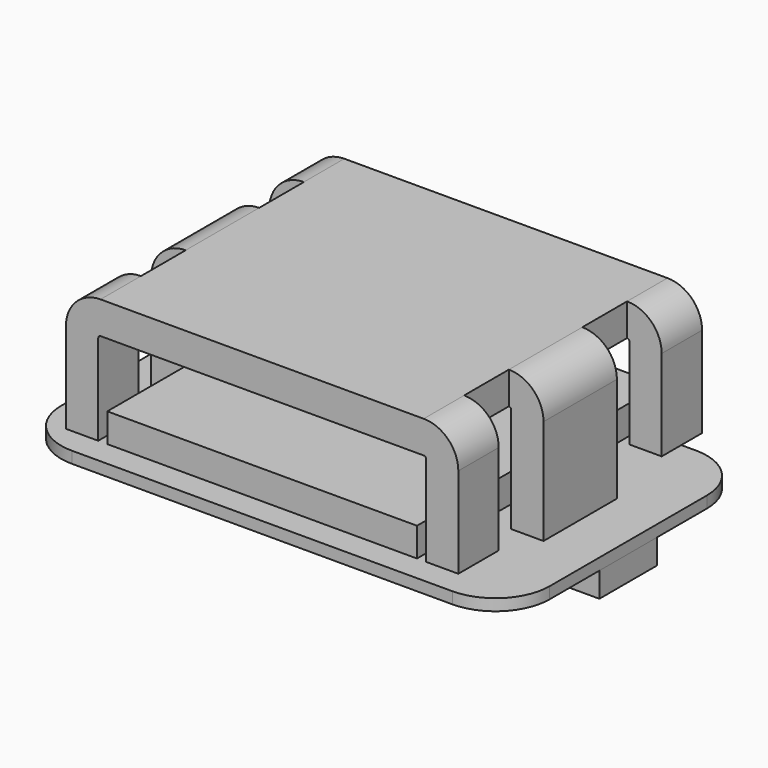
from build123d import *

# Parameters (mm, degrees)
F1_DEPTH      = 1.0922
F2_W          = 21.5011
F2_H          = 13.4112
F3_DEPTH      = 0.508
F4_R          = 2.38125
F6_DEPTH      = 6.7056
F6_DEPTH_BACK = 6.7056
F7_W          = 13.63345
F7_H          = 13.4112
F8_DEPTH      = 1.27
F9_W          = 1.946656171
F9_H          = 2.4638
F10_DEPTH     = 7.875
F11_W         = 1.4224
F11_H         = 4.0386000008
F11_H_2       = 4.0386000007
F12_DEPTH     = 0.635


with BuildPart() as f1:
    # F0 (on Top) → F1 (new body)
    with BuildSketch(Plane.XY):
        Polygon((8.78205, 3.175), (0, 3.175), (-8.78205, 3.175), (-8.78205, 1.5875), (-10.75055, 1.5875), (-10.75055, 0), (-10.75055, -1.5875), (-8.78205, -1.5875), (-8.78205, -3.175), (0, -3.175), (8.78205, -3.175), (8.78205, -1.5875), (10.75055, -1.5875), (10.75055, 0), (10.75055, 1.5875), (8.78205, 1.5875), align=None)
    extrude(amount=F1_DEPTH)


with BuildPart() as f3:
    # F2 (on face) → F3 (new body)
    with BuildSketch(Plane.XY.offset(1.0922)):
        Rectangle(F2_W, F2_H)
    extrude(amount=F3_DEPTH)

    # F4
    f4_edges = [f3.edges().sort_by_distance(p)[0] for p in [
        (10.75055, -6.7056, 1.3462),
        (10.75055, 6.7056, 1.3462),
        (-10.75055, -6.7056, 1.3462),
        (-10.75055, 6.7056, 1.3462),
    ]]
    fillet(f4_edges, radius=F4_R)


with BuildPart() as f6:
    # F5 (on Front) → F6 (new body, two sides)
    with BuildSketch(Plane.XZ) as f6_sk:
        with BuildLine():
            Line((7.112, 7.874), (0, 7.874))
            Line((0, 7.874), (-7.112, 7.874))
            ThreePointArc((-7.112, 7.874), (-8.1896307345, 7.4276307345), (-8.636, 6.35))
            Line((-8.636, 6.35), (-8.636, 2.3622))
            Line((-8.636, 2.3622), (-7.2136, 2.3622))
            Line((-7.2136, 2.3622), (-7.2136, 6.35))
            ThreePointArc((-7.2136, 6.35), (-7.183842049, 6.421842049), (-7.112, 6.4516))
            Line((-7.112, 6.4516), (0, 6.4516))
            Line((0, 6.4516), (7.112, 6.4516))
            ThreePointArc((7.112, 6.4516), (7.183842049, 6.421842049), (7.2136, 6.35))
            Line((7.2136, 6.35), (7.2136, 2.3622))
            Line((7.2136, 2.3622), (8.636, 2.3622))
            Line((8.636, 2.3622), (8.636, 6.35))
            ThreePointArc((8.636, 6.35), (8.1896307345, 7.4276307345), (7.112, 7.874))
        make_face()
    extrude(amount=F6_DEPTH)
    extrude(f6_sk.sketch, amount=-F6_DEPTH_BACK)

    # F9 (on face) → F10 (cut, through all)
    with BuildSketch(Plane.XY.offset(7.874)):
        with Locations((-8.0853280855, 3.2512)):
            Rectangle(F9_W, F9_H)
        with Locations((-8.0853280855, -3.2512)):
            Rectangle(F9_W, F9_H)
        with Locations((8.0853280855, 3.2512)):
            Rectangle(F9_W, F9_H)
        with Locations((8.0853280855, -3.2512)):
            Rectangle(F9_W, F9_H)
    extrude(amount=-F10_DEPTH, mode=Mode.SUBTRACT)

    # F11 (on face) → F12 (join)
    with BuildSketch(Plane(origin=(0, 0, 2.3622), x_dir=(1, 0, 0), z_dir=(0, 0, -1))):
        with Locations((-7.9248, 4e-10)):
            Rectangle(F11_W, F11_H)
        with Locations((7.9248, 3e-10)):
            Rectangle(F11_W, F11_H_2)
    extrude(amount=F12_DEPTH)


with BuildPart() as f8:
    # F7 (on face) → F8 (new body)
    with BuildSketch(Plane(origin=(0, 0, 2.3622), x_dir=(1, 0, 0), z_dir=(0, 0, -1))):
        Rectangle(F7_W, F7_H)
    extrude(amount=-F8_DEPTH)


solid = Compound([f1.part, f3.part, f6.part, f8.part])
